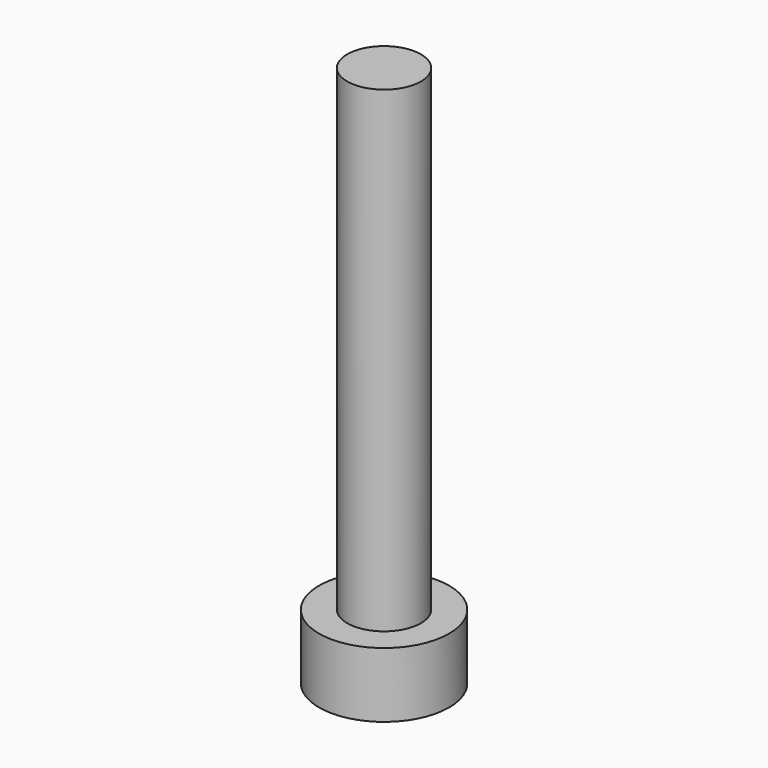
from build123d import *

# Parameters (mm, degrees)
CYLINDER002_R     = 3
CYLINDER002_DEPTH = 3
CYLINDER001_R     = 1.7
CYLINDER001_DEPTH = 25


with BuildPart() as cylinder002:
    # Cylinder002 → Cylinder002 (new body)
    with BuildSketch(Plane.XY):
        Circle(CYLINDER002_R)
    extrude(amount=CYLINDER002_DEPTH)


with BuildPart() as screw:
    # Cylinder001 → Cylinder001 (new body)
    with BuildSketch(Plane.XY):
        Circle(CYLINDER001_R)
    extrude(amount=CYLINDER001_DEPTH)

    # Fusion: union Cylinder002
    add(cylinder002.part)


solid = screw.part
